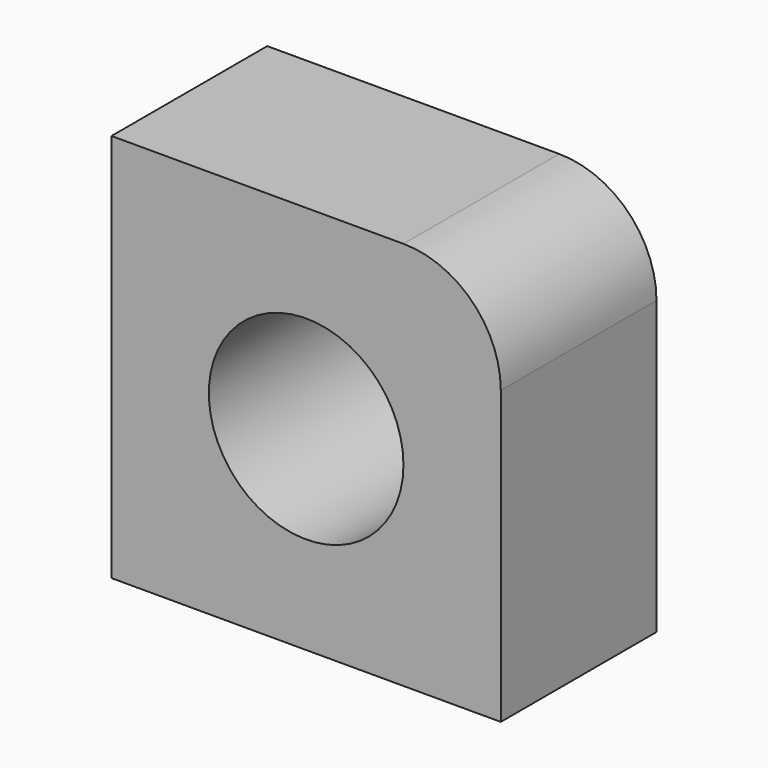
from build123d import *

# Parameters (mm, degrees)
F0_R     = 5
F1_DEPTH = 10


with BuildPart() as f1:
    # F0 (on Front) → F1 (new body)
    with BuildSketch(Plane.XZ):
        with BuildLine():
            ThreePointArc((10, 5), (8.535534, 8.535534), (5, 10))
            Line((5, 10), (-10, 10))
            Line((-10, 10), (-10, -10))
            Line((-10, -10), (10, -10))
            Line((10, -10), (10, 5))
        make_face()
        Circle(F0_R, mode=Mode.SUBTRACT)
    extrude(amount=F1_DEPTH)


solid = f1.part
